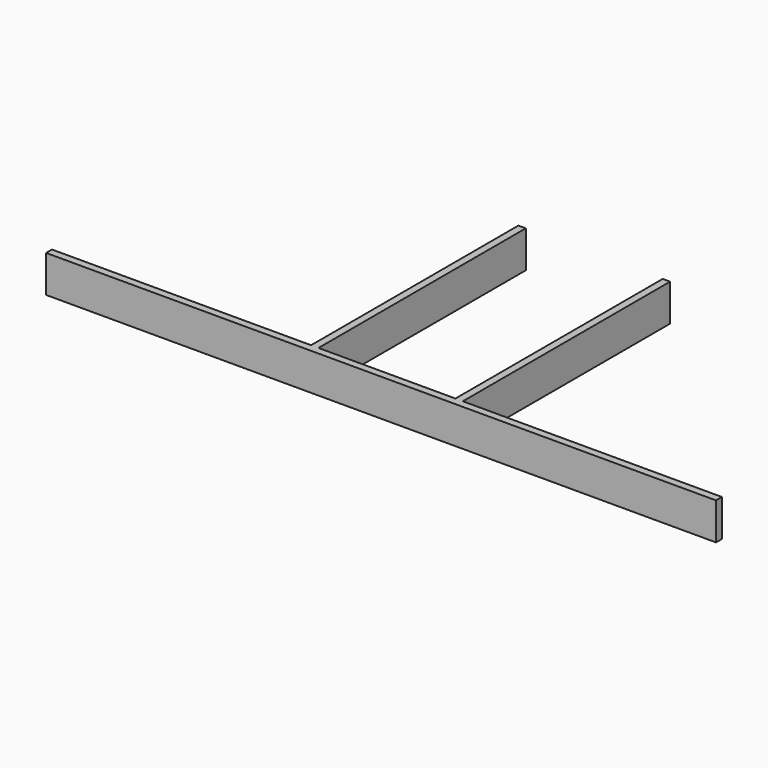
from build123d import *

# Parameters (mm, degrees)
F0_W     = 1
F0_H     = 35
F1_DEPTH = 2.5


with BuildPart() as f1:
    # F0 (on Top) → F1 (new body, symmetric)
    with BuildSketch(Plane.XY):
        with Locations((-9.75, 18.5)):
            Rectangle(F0_W, F0_H)
        with Locations((9.75, 18.5)):
            Rectangle(F0_W, F0_H)
        Polygon((0, 1), (0, 0), (45.25, 0), (45.25, 1), (10.25, 1), (9.25, 1), align=None)
        Polygon((-45.25, 0), (0, 0), (0, 1), (-9.25, 1), (-10.25, 1), (-45.25, 1), align=None)
    extrude(amount=F1_DEPTH, both=True)


solid = f1.part
